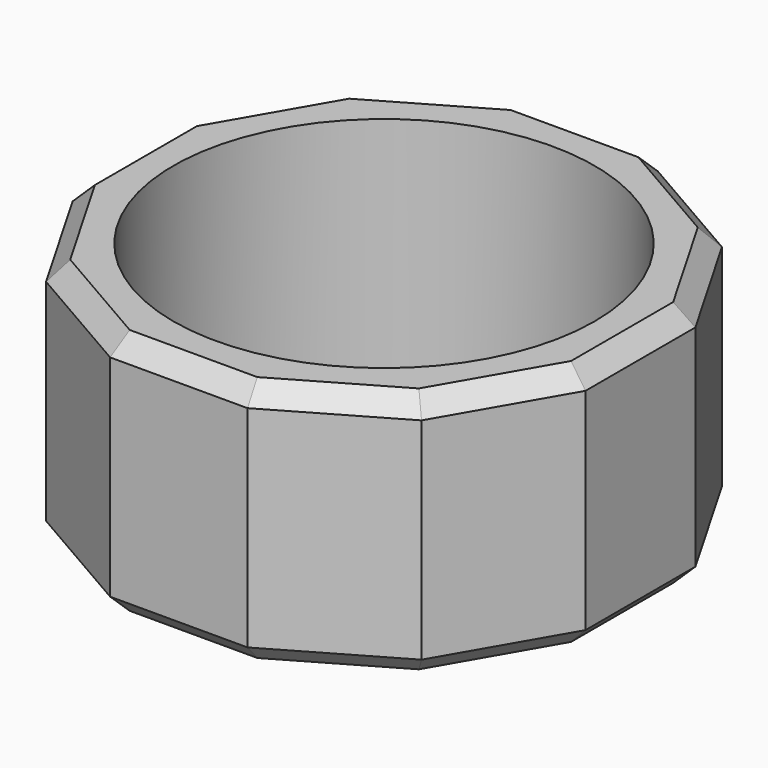
from build123d import *

# Parameters (mm, degrees)
F0_R     = 11.5
F1_DEPTH = 13.5
F2_SIZE  = 1


with BuildPart() as f1:
    # F0 (on Top) → F1 (new body)
    with BuildSketch(Plane.XY):
        Polygon((14, -3.751289), (14, 3.751289), (10.248711, 10.248711), (3.751289, 14), (-3.751289, 14), (-10.248711, 10.248711), (-14, 3.751289), (-14, -3.751289), (-10.248711, -10.248711), (-3.751289, -14), (3.751289, -14), (10.248711, -10.248711), align=None)
        Circle(F0_R, mode=Mode.SUBTRACT)
    extrude(amount=F1_DEPTH)

    # F2
    f2_edges = [f1.edges().sort_by_distance(p)[0] for p in [
        (7, -12.124356, 13.5),
        (14, 0, 13.5),
        (12.124356, 7, 13.5),
        (7, 12.124356, 13.5),
        (0, 14, 13.5),
        (-7, 12.124356, 13.5),
        (-12.124356, 7, 13.5),
        (-14, 0, 13.5),
        (-12.124356, -7, 13.5),
        (-7, -12.124356, 13.5),
        (0, -14, 13.5),
        (14, 0, 0),
        (12.124356, 7, 0),
        (7, 12.124356, 0),
        (0, 14, 0),
        (-7, 12.124356, 0),
        (-12.124356, 7, 0),
        (-14, 0, 0),
        (-12.124356, -7, 0),
        (-7, -12.124356, 0),
        (0, -14, 0),
        (7, -12.124356, 0),
        (12.124356, -7, 0),
        (12.124356, -7, 13.5),
    ]]
    chamfer(f2_edges, length=F2_SIZE)


solid = f1.part
